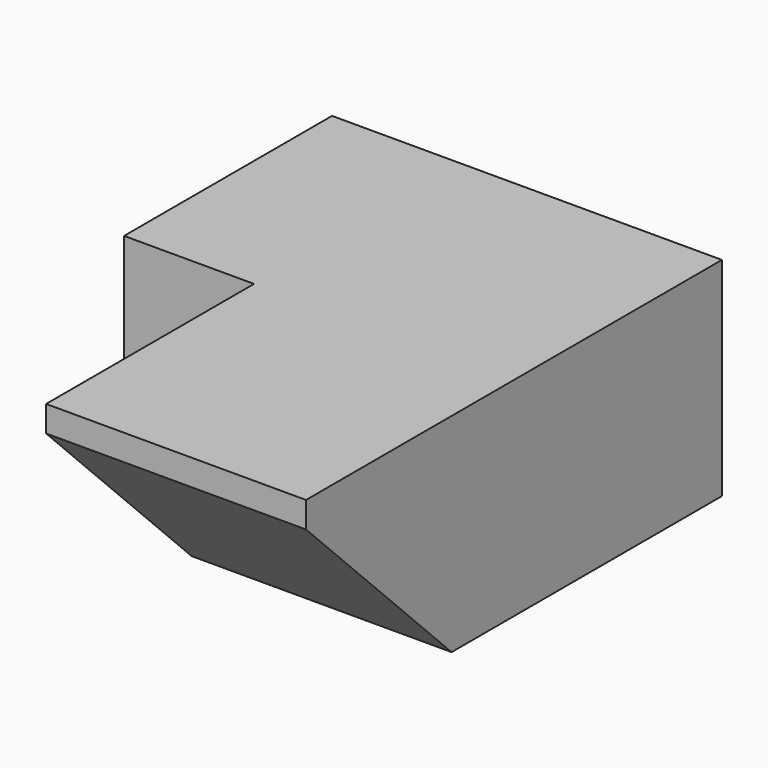
from build123d import *

# Parameters (mm, degrees)
F1_DEPTH = 8
F2_SIZE  = 7


with BuildPart() as f1:
    # F0 (on Top) → F1 (new body)
    with BuildSketch(Plane.XY):
        Polygon((10, -10), (10, 10), (-5, 10), (-5, 0), (0, 0), (0, -10), align=None)
    extrude(amount=F1_DEPTH)

    # F2
    f2_edges = [f1.edges().sort_by_distance(p)[0] for p in [
        (5, -10, 0),
    ]]
    chamfer(f2_edges, length=F2_SIZE)


solid = f1.part
